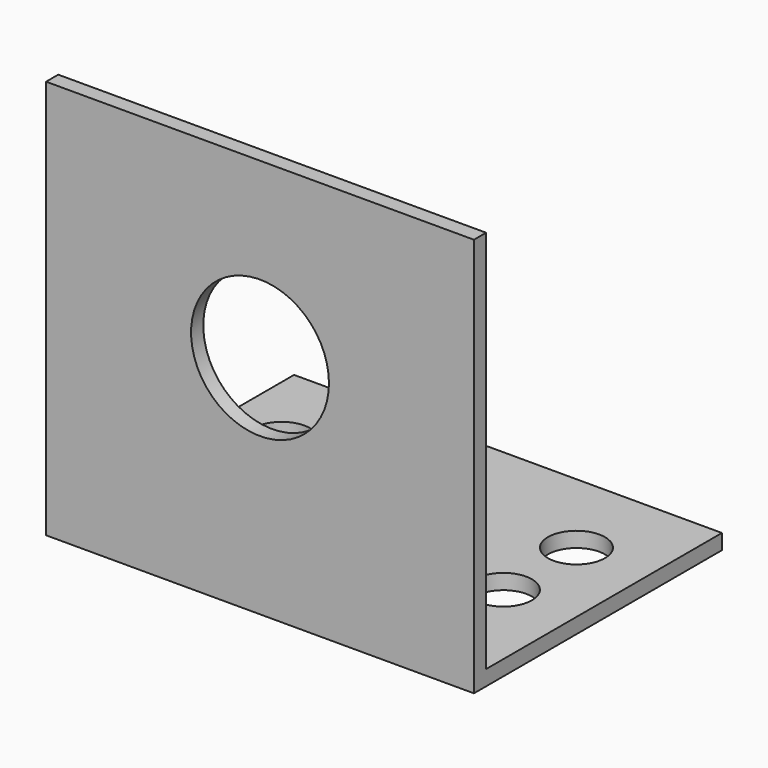
from build123d import *

# Parameters (mm, degrees)
SKETCH_W                        = 45
SKETCH_H                        = 42
PAD_DEPTH                       = 1.6
SKETCH001_W                     = 45
SKETCH001_H                     = 1.6
PAD001_DEPTH                    = 31
SKETCH002_R                     = 7.25
POCKET_DEPTH                    = 32.601
SKETCH003_R                     = 3
POCKET001_DEPTH                 = 140.910153
SKETCH003_LINEARPATTERN_2_R     = 3
POCKET001_LINEARPATTERN_2_DEPTH = 140.910153
LINEARPATTERN001_COUNT          = 2
LINEARPATTERN001_PITCH          = 31


with BuildPart() as part:
    # Sketch → Pad (new body)
    with BuildSketch(Plane.XZ):
        with Locations((22.5, 21)):
            Rectangle(SKETCH_W, SKETCH_H)
    extrude(amount=PAD_DEPTH)

    # Sketch001 (on Face5 of Pad) → Pad001 (join)
    with BuildSketch(Plane(origin=(0, 0, 0), x_dir=(1, 0, 0), z_dir=(0, 1, 0))):
        with Locations((22.5, -0.8)):
            Rectangle(SKETCH001_W, SKETCH001_H)
    extrude(amount=PAD001_DEPTH)

    # Sketch002 (on Face5 of Pad001) → Pocket (cut, through all)
    with BuildSketch(Plane.XZ.offset(1.6)):
        with Locations((22.5, 23.75)):
            Circle(SKETCH002_R)
    extrude(amount=-POCKET_DEPTH, mode=Mode.SUBTRACT)

    # Sketch003 (on Face12 of Pocket) → Pocket001 (cut, through all)
    with BuildSketch(Plane(origin=(0, 0, 1.6), x_dir=(-1, 0, 0), z_dir=(0, 0, 1))):
        with Locations((-6.3, -11.9)):
            Circle(SKETCH003_R)
    pocket001 = extrude(amount=-POCKET001_DEPTH, mode=Mode.SUBTRACT)

    # Sketch003 LinearPattern 2 → Pocket001 LinearPattern 2 (cut, through all)
    with BuildSketch(Plane(origin=(0, 9.6, 1.6), x_dir=(-1, 0, 0), z_dir=(0, 0, 1))):
        with Locations((-6.3, -11.9)):
            Circle(SKETCH003_LINEARPATTERN_2_R)
    pocket001_linearpattern_2 = extrude(amount=-POCKET001_LINEARPATTERN_2_DEPTH, mode=Mode.SUBTRACT)

    # LinearPattern001: Pocket001, Pocket001 LinearPattern 2 ×2
    with Locations(*[(i * LINEARPATTERN001_PITCH, 0, 0) for i in range(1, LINEARPATTERN001_COUNT)]):
        add(pocket001, mode=Mode.SUBTRACT)
        add(pocket001_linearpattern_2, mode=Mode.SUBTRACT)


solid = part.part
